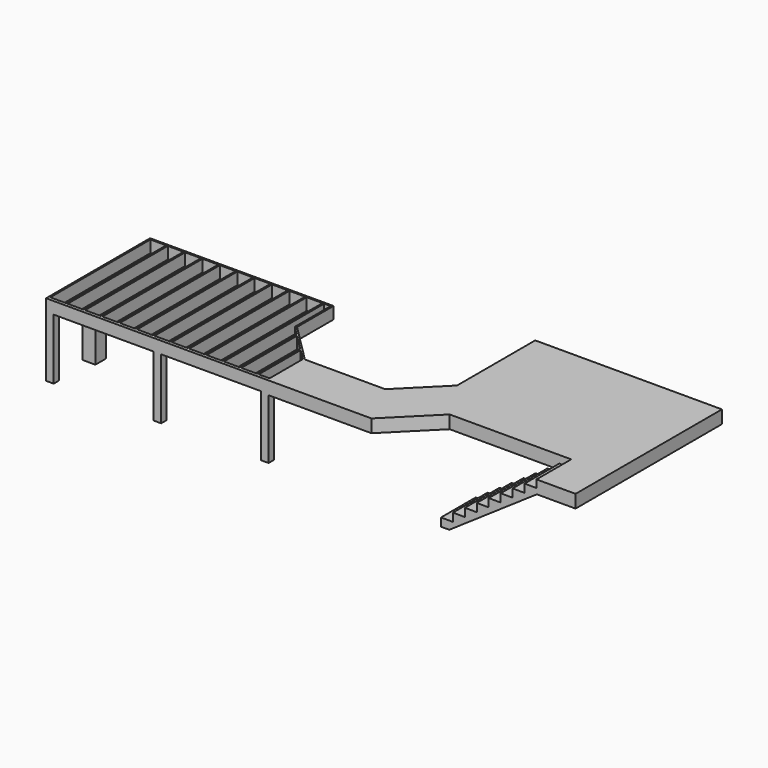
from build123d import *

# Parameters (mm, degrees)
F0_W      = 304.8
F0_H      = 304.8
F1_DEPTH  = 1422.4
F0_W_2    = 177.8
F0_H_2    = 152.4
F3_DEPTH  = 279.4
F4_W      = 5130.8
F4_H      = 38.1
F5_DEPTH  = 279.4
F6_W      = 38.1
F6_H      = 2927.8466365912
F7_DEPTH  = 279.4
F9_DEPTH  = 304.8
F10_W     = 2235.2
F10_H     = 1016
F11_DEPTH = 1701.801
F13_DEPTH = 1016
F15_DEPTH = 304.8


with BuildPart() as f1:
    # F0 (on Top) → F1 (new body)
    with BuildSketch(Plane.XY):
        with Locations((152.4, -1828.8)):
            Rectangle(F0_W, F0_H)
    extrude(amount=F1_DEPTH)



with BuildPart() as f1b:
    # F0 (on Top) → F1, piece 2 (new body)
    with BuildSketch(Plane.XY):
        with Locations((88.9, -2965.9466365912)):
            Rectangle(F0_W_2, F0_H_2)
    extrude(amount=F1_DEPTH)


with BuildPart() as f1c:
    # F0 (on Top) → F1, piece 3 (new body)
    with BuildSketch(Plane.XY):
        with Locations((2603.5, -2965.9466365912)):
            Rectangle(F0_W_2, F0_H_2)
    extrude(amount=F1_DEPTH)


with BuildPart() as f1d:
    # F0 (on Top) → F1, piece 4 (new body)
    with BuildSketch(Plane.XY):
        with Locations((5118.1, -2965.9466365912)):
            Rectangle(F0_W_2, F0_H_2)
    extrude(amount=F1_DEPTH)


with BuildPart() as f1_1:
    add(f1.part)

    add(f1b.part)  # F3 merges F1b

    add(f1c.part)  # F3 merges F1c

    add(f1d.part)  # F3 merges F1d
    # F2 (on face) → F3 (join)
    with BuildSketch(Plane.XY.offset(1422.4)):
        Polygon((4292.6, 0), (0, 0), (0, -3042.1466365912), (5207, -3042.1466365912), (5207, -1981.2), (4292.6, -1066.8), align=None)
        Polygon((38.1, -38.1), (4254.5, -38.1), (4254.5, -1082.5815367264), (5168.9, -1996.9815367264), (5168.9, -3004.0466365912), (38.1, -3004.0466365912), align=None, mode=Mode.SUBTRACT)
    extrude(amount=F3_DEPTH)

    # F4 (on face) → F5 (join, through all)
    with BuildSketch(Plane.XY.offset(1422.4)):
        with Locations((2603.5, -2984.9966365912)):
            Rectangle(F4_W, F4_H)
    extrude(amount=F5_DEPTH)

    # F6 (on face) → F7 (join, through all)
    with BuildSketch(Plane.XY.offset(1422.4)):
        with Locations((425.45, -1502.0233182956)):
            Rectangle(F6_W, F6_H)
        with Locations((831.85, -1502.0233182956)):
            Rectangle(F6_W, F6_H)
        with Locations((1238.25, -1502.0233182956)):
            Rectangle(F6_W, F6_H)
        with Locations((1644.65, -1502.0233182956)):
            Rectangle(F6_W, F6_H)
        with Locations((2051.05, -1502.0233182956)):
            Rectangle(F6_W, F6_H)
        with Locations((2457.45, -1502.0233182956)):
            Rectangle(F6_W, F6_H)
        with Locations((2863.85, -1502.0233182956)):
            Rectangle(F6_W, F6_H)
        with Locations((3270.25, -1502.0233182956)):
            Rectangle(F6_W, F6_H)
        with Locations((3676.65, -1502.0233182956)):
            Rectangle(F6_W, F6_H)
        with Locations((4083.05, -1502.0233182956)):
            Rectangle(F6_W, F6_H)
        Polygon((4470.4, -1298.4815367264), (4470.4, -2965.9466365912), (4508.5, -2965.9466365912), (4508.5, -1336.5815367264), align=None)
        Polygon((4876.8, -1704.8815367264), (4876.8, -2965.9466365912), (4914.9, -2965.9466365912), (4914.9, -1742.9815367264), align=None)
    extrude(amount=F7_DEPTH)

    # F8 (on face) → F9 (join)
    with BuildSketch(Plane.XY.offset(1701.8)):
        Polygon((7086.6, -1981.2), (5207, -1981.2), (5207, -3042.1466365912), (12389.3466365912, -3042.1466365912), (12389.3466365912, 1238.7466365912), (8020.5466365912, 1238.7466365912), (8020.5466365912, -1047.2533634088), align=None)
    extrude(amount=-F9_DEPTH)

    # F10 (on face) → F11 (cut, through all)
    with BuildSketch(Plane.XY.offset(1701.8)):
        with Locations((10357.3466365912, -2534.1466365912)):
            Rectangle(F10_W, F10_H)
    extrude(amount=-F11_DEPTH, mode=Mode.SUBTRACT)

    # F12 (on face) → F13 (join, through all)
    with BuildSketch(Plane.XZ.offset(3042.1466365912)):
        Polygon((11474.9466365912, 1524), (11195.5466365912, 1524), (11195.5466365912, 1333.5), (10916.1466365912, 1333.5), (10916.1466365912, 1143), (10636.7466365912, 1143), (10636.7466365912, 952.5), (10357.3466365912, 952.5), (10357.3466365912, 762), (10077.9466365912, 762), (10077.9466365912, 571.5), (9798.5466365912, 571.5), (9798.5466365912, 381), (9519.1466365912, 381), (9519.1466365912, 190.5), (9239.7466365912, 190.5), (9239.7466365912, 0), (9434.6166791498, 0), (11930.5900124831, 1701.8), (11474.9466365912, 1701.8), align=None)
    extrude(amount=-F13_DEPTH)

    # F14 (on face) → F15 (cut, through all)
    with BuildSketch(Plane.XY.offset(1701.8)):
        Polygon((8630.1466365912, -3042.1466365912), (9239.7466365912, -3042.1466365912), (9239.7466365912, -2026.1466365912), (8630.1466365912, -2026.1466365912), (7614.1466365912, -3042.1466365912), align=None)
    extrude(amount=-F15_DEPTH, mode=Mode.SUBTRACT)


solid = f1_1.part
